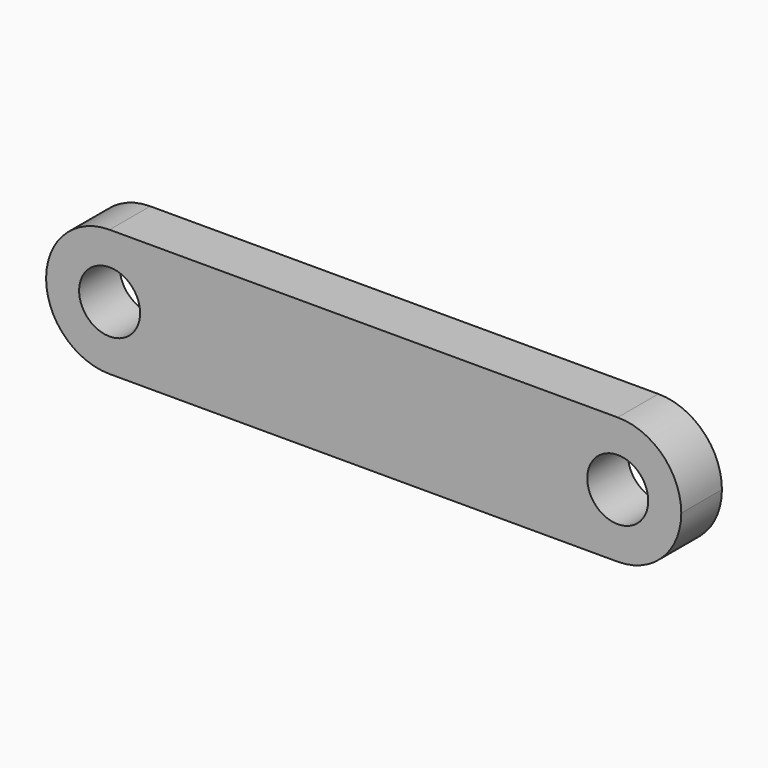
from build123d import *

# Parameters (mm, degrees)
F0_R     = 1.2
F1_DEPTH = 2


with BuildPart() as f1:
    # F0 (on Front) → F1 (new body)
    with BuildSketch(Plane.XZ):
        with BuildLine():
            Line((0, 2.5), (-10, 2.5))
            ThreePointArc((-10, 2.5), (-11.767767, 1.767767), (-12.5, 0))
            ThreePointArc((-12.5, 0), (-11.767767, -1.767767), (-10, -2.5))
            Line((-10, -2.5), (0, -2.5))
            Line((0, -2.5), (10, -2.5))
            ThreePointArc((10, -2.5), (11.767767, -1.767767), (12.5, 0))
            ThreePointArc((12.5, 0), (11.767767, 1.767767), (10, 2.5))
            Line((10, 2.5), (0, 2.5))
        make_face()
        with Locations((-10, 0)):
            Circle(F0_R, mode=Mode.SUBTRACT)
        with Locations((10, 0)):
            Circle(F0_R, mode=Mode.SUBTRACT)
    extrude(amount=F1_DEPTH)


solid = f1.part
